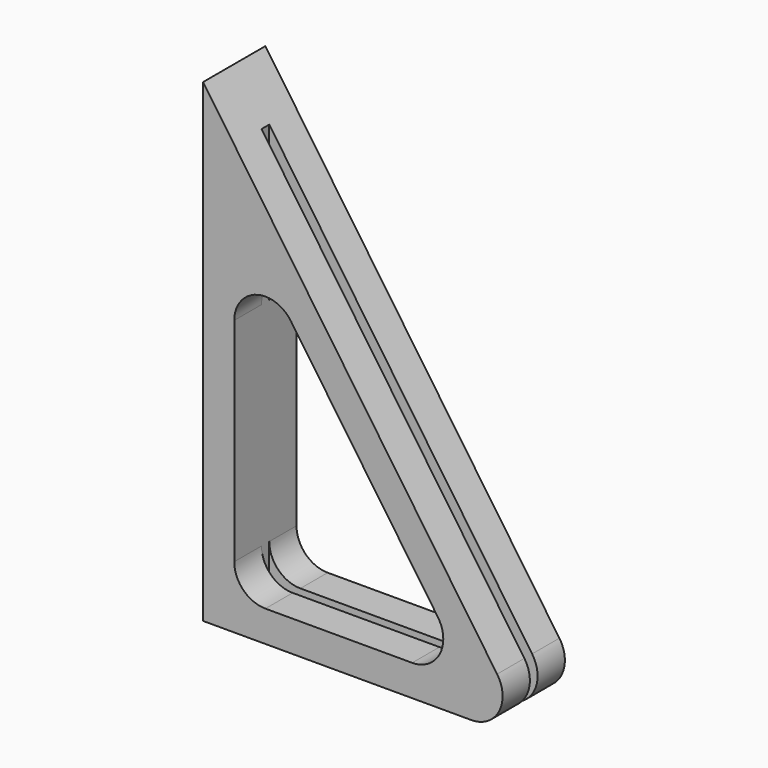
from build123d import *

# Parameters (mm, degrees)
F1_DEPTH = 25
F3_W     = 3.1
F3_H     = 395.207942
F4_DEPTH = 153
F5_R     = 10


with BuildPart() as f1:
    # F0 (on Front) → F1 (new body)
    with BuildSketch(Plane.XZ):
        Polygon((0, 0), (93.106838, 0), (105.260208, 0), (98.35337, 10), (0, 152.4), align=None)
        Polygon((10, 10), (10, 120.325452), (86.2, 10), align=None, mode=Mode.SUBTRACT)
    extrude(amount=F1_DEPTH)

    # F3 (on offset) → F4 (cut, through all)
    with BuildSketch(Plane.YZ.offset(163)):
        with Locations((-12.5, 0)):
            Rectangle(F3_W, F3_H)
    extrude(amount=-F4_DEPTH, mode=Mode.SUBTRACT)

    # F5
    f5_edges = [f1.edges().sort_by_distance(p)[0] for p in [
        (105.260208, -19.525, 0),
        (105.260208, -5.475, 0),
        (10, -19.525, 10),
        (10, -5.475, 10),
        (10, -19.525, 120.325452),
        (10, -5.475, 120.325452),
        (86.2, -19.525, 10),
        (86.2, -5.475, 10),
    ]]
    fillet(f5_edges, radius=F5_R)


solid = f1.part
